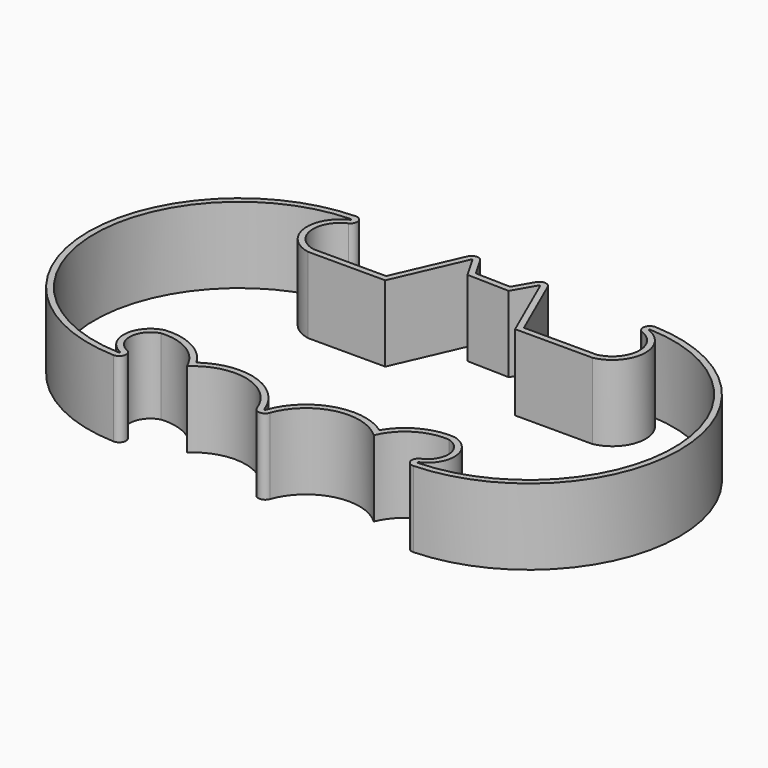
from build123d import *

# Parameters (mm, degrees)
F1_DEPTH = 10


with BuildPart() as f1:
    # F0 (on Top) → F1 (new body)
    with BuildSketch(Plane.XY):
        with BuildLine():
            ThreePointArc((-6.714271, -16.914273), (-0.235273, -15.199649), (4.738337, -19.691927))
            ThreePointArc((4.738337, -19.691927), (5.586952, -20.29217), (6.435566, -19.691927))
            ThreePointArc((6.435566, -19.691927), (11.409176, -15.199649), (17.888174, -16.914273))
            ThreePointArc((17.888174, -16.914273), (20.536513, -13.803613), (24.507416, -12.843491))
            ThreePointArc((24.507416, -12.843491), (26.536414, -15.25895), (24.919216, -17.967445))
            ThreePointArc((24.919216, -17.967445), (24.4038, -18.991339), (25.311912, -19.690872))
            ThreePointArc((25.311912, -19.690872), (44.486815, 0.074047), (25.459012, 19.98062))
            ThreePointArc((25.459012, 19.98062), (24.539987, 19.261705), (25.10301, 18.23972))
            ThreePointArc((25.10301, 18.23972), (27.400825, 14.613237), (24.559428, 11.394885))
            Line((24.559428, 11.394885), (14.999758, 11.394885))
            Line((14.999758, 11.394885), (11.213153, 20.033227))
            ThreePointArc((11.213153, 20.033227), (10.436556, 20.570639), (9.607449, 20.118428))
            Line((9.607449, 20.118428), (8.193074, 17.643271))
            Line((8.193074, 17.643271), (3.569399, 17.76631))
            Line((3.569399, 17.76631), (2.140906, 20.266173))
            ThreePointArc((2.140906, 20.266173), (1.311799, 20.718384), (0.535203, 20.180972))
            Line((0.535203, 20.180972), (-3.251402, 11.54263))
            Line((-3.251402, 11.54263), (-12.811073, 11.54263))
            ThreePointArc((-12.811073, 11.54263), (-15.638403, 14.619541), (-13.616246, 18.276324))
            ThreePointArc((-13.616246, 18.276324), (-13.125555, 19.299533), (-14.026369, 19.989655))
            ThreePointArc((-14.026369, 19.989655), (-33.31297, 0.203497), (-14.138009, -19.690872))
            ThreePointArc((-14.138009, -19.690872), (-13.229897, -18.991339), (-13.745313, -17.967445))
            ThreePointArc((-13.745313, -17.967445), (-15.362511, -15.25895), (-13.333513, -12.843491))
            ThreePointArc((-13.333513, -12.843491), (-9.36261, -13.803613), (-6.714271, -16.914273))
        make_face()
        with BuildLine():
            ThreePointArc((-14.110806, -18.891334), (-32.512973, 0.201246), (-14.003666, 19.189977))
            ThreePointArc((-14.003666, 19.189977), (-13.903576, 19.113297), (-13.958097, 18.999607))
            ThreePointArc((-13.958097, 18.999607), (-16.427445, 14.482007), (-12.888596, 10.74263))
            Line((-12.888596, 10.74263), (-2.728596, 10.74263))
            Line((-2.728596, 10.74263), (1.2679, 19.859795))
            ThreePointArc((1.2679, 19.859795), (1.354189, 19.919508), (1.446312, 19.869262))
            Line((1.446312, 19.869262), (3.098136, 16.978568))
            Line((3.098136, 16.978568), (8.650219, 16.830822))
            Line((8.650219, 16.830822), (10.302044, 19.721517))
            ThreePointArc((10.302044, 19.721517), (10.394167, 19.771763), (10.480455, 19.71205))
            Line((10.480455, 19.71205), (14.476952, 10.594885))
            Line((14.476952, 10.594885), (24.636952, 10.594885))
            ThreePointArc((24.636952, 10.594885), (28.19471, 14.507176), (25.386326, 18.987873))
            ThreePointArc((25.386326, 18.987873), (25.323767, 19.101427), (25.425881, 19.181307))
            ThreePointArc((25.425881, 19.181307), (43.686821, 0.077013), (25.284709, -18.891334))
            ThreePointArc((25.284709, -18.891334), (25.183808, -18.813608), (25.241076, -18.699842))
            ThreePointArc((25.241076, -18.699842), (27.330713, -15.158302), (24.636952, -12.051417))
            ThreePointArc((24.636952, -12.051417), (20.608667, -12.845247), (17.621218, -15.661696))
            ThreePointArc((17.621218, -15.661696), (10.711949, -14.563871), (5.681242, -19.425476))
            ThreePointArc((5.681242, -19.425476), (5.586952, -19.49217), (5.492661, -19.425476))
            ThreePointArc((5.492661, -19.425476), (0.461954, -14.563871), (-6.447315, -15.661696))
            ThreePointArc((-6.447315, -15.661696), (-9.434764, -12.845247), (-13.463048, -12.051417))
            ThreePointArc((-13.463048, -12.051417), (-16.15681, -15.158302), (-14.067173, -18.699842))
            ThreePointArc((-14.067173, -18.699842), (-14.009905, -18.813608), (-14.110806, -18.891334))
        make_face(mode=Mode.SUBTRACT)
    extrude(amount=F1_DEPTH)


solid = f1.part
